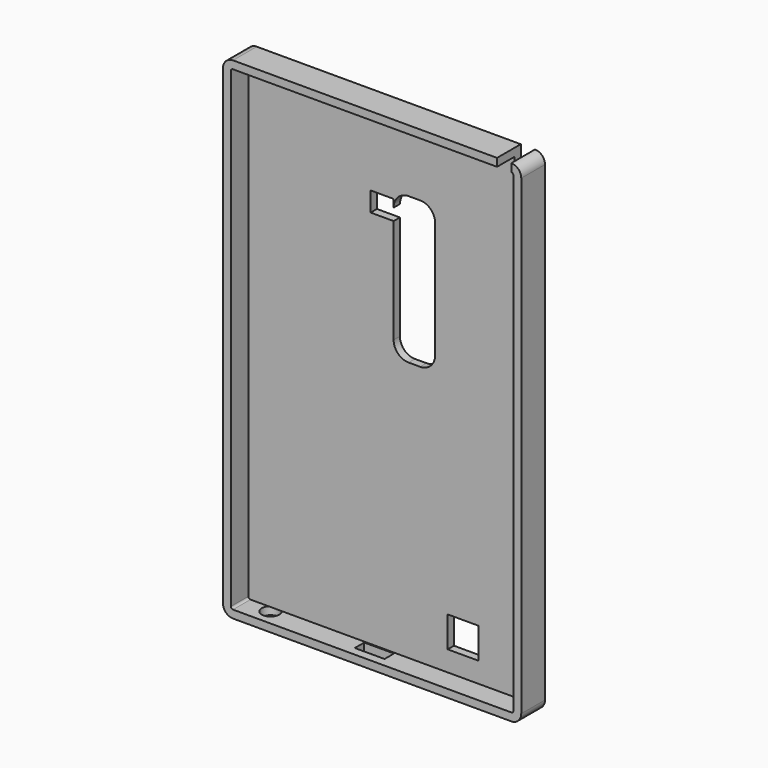
from build123d import *

# Parameters (mm, degrees)
F1_DEPTH = 7.5438
F4_T     = -2
F3_W     = 7.7331361671
F3_H     = 7.36
F3_W_2   = 3.617387048
F3_H_2   = 5.1309723878
F3_W_3   = 7.83
F3_H_3   = 7.83
F5_DEPTH = 50.8
F6_DEPTH = 25.4
F7_DEPTH = 50.8
F2_R     = 2.2388813648
F2_W     = 7.5641849544
F2_H     = 3.0062778387
F8_DEPTH = 2


with BuildPart() as f1:
    # F0 (on Front) → F1 (new body)
    with BuildSketch(Plane.XZ):
        with BuildLine():
            Line((37.6971361852, 55.4623973095), (-33.0543925679, 55.4623973095))
            ThreePointArc((-33.0543925679, 55.4623973095), (-34.8504437921, 54.7184485338), (-35.5943925679, 52.9223973095))
            Line((-35.5943925679, 52.9223973095), (-35.5943925679, -66.9464466786))
            ThreePointArc((-35.5943925679, -66.9464466786), (-34.8504437921, -68.7424979029), (-33.0543925679, -69.4864466786))
            Line((-33.0543925679, -69.4864466786), (37.6971361852, -69.4864466786))
            ThreePointArc((37.6971361852, -69.4864466786), (39.4931874094, -68.7424979029), (40.2371361852, -66.9464466786))
            Line((40.2371361852, -66.9464466786), (40.2371361852, 52.9223973095))
            ThreePointArc((40.2371361852, 52.9223973095), (39.4931874094, 54.7184485338), (37.6971361852, 55.4623973095))
        make_face()
    extrude(amount=-F1_DEPTH)

    # F4
    f4_openings = [f1.faces().sort_by_distance(p)[0] for p in [
        (2.321372, 0, -7.012025),
    ]]
    offset(amount=F4_T, openings=f4_openings)

    # F3 (on face) → F5 (cut)
    with BuildSketch(Plane(origin=(0, 7.5438, 0), x_dir=(-1, 0, 0), z_dir=(0, 1, 0))):
        with BuildLine():
            Line((-7.1636471725, 35.889052581), (-10.0967833396, 35.889052581))
            ThreePointArc((-10.0967833396, 35.889052581), (-12.7908601759, 34.7731294173), (-13.9067833396, 32.079052581))
            Line((-13.9067833396, 32.079052581), (-13.9067833396, 22.249052581))
            Line((-13.9067833396, 22.249052581), (-3.3536471725, 22.249052581))
            Line((-3.3536471725, 22.249052581), (-3.3536471725, 29.0738900152))
            Line((-3.3536471725, 29.0738900152), (-3.3536471725, 32.079052581))
            ThreePointArc((-3.3536471725, 32.079052581), (-4.4695703362, 34.7731294173), (-7.1636471725, 35.889052581))
        make_face()
        Polygon((-3.3536471725, 34.0338900152), (-3.3536471725, 32.079052581), (-3.3536471725, 29.0738900152), (2.4879228336, 29.0738900152), (2.4879228336, 34.0338900152), align=None)
        with BuildLine():
            Line((-3.3536471725, 22.249052581), (-13.9067833396, 22.249052581))
            Line((-13.9067833396, 22.249052581), (-13.9067833396, 2.459052581))
            ThreePointArc((-13.9067833396, 2.459052581), (-12.7908601759, -0.2350242554), (-10.0967833396, -1.350947419))
            Line((-10.0967833396, -1.350947419), (-7.1636471725, -1.350947419))
            ThreePointArc((-7.1636471725, -1.350947419), (-4.4695703362, -0.2350242554), (-3.3536471725, 2.459052581))
            Line((-3.3536471725, 2.459052581), (-3.3536471725, 22.249052581))
        make_face()
        with Locations((-8.630215256, 10.449052581)):
            Rectangle(F3_W, F3_H, mode=Mode.SUBTRACT)
        with Locations((-35.8884426612, 52.8969111156)):
            Rectangle(F3_W_2, F3_H_2)
        with Locations((-21.0011794782, -58.4082461512)):
            Rectangle(F3_W_3, F3_H_3)
    extrude(amount=-F5_DEPTH, mode=Mode.SUBTRACT)

    # F6 (add): a face of the model
    f6_faces = [f1.faces().sort_by_distance(p)[0] for p in [
        (8.630215256, 7.5438, 10.449052581),
    ]]
    extrude(f6_faces, amount=F6_DEPTH)

    # F7 (cut): a face of the model
    f7_faces = [f1.faces().sort_by_distance(p)[0] for p in [
        (8.630215256, 32.9438, 10.449052581),
    ]]
    extrude(f7_faces, amount=-F7_DEPTH, mode=Mode.SUBTRACT)

    # F2 (on face) → F8 (cut)
    with BuildSketch(Plane(origin=(0, 0, -69.4864466786), x_dir=(1, 0, 0), z_dir=(0, 0, -1))):
        with Locations((-26.7510712147, -4.0631839074)):
            Circle(F2_R)
        with Locations((-0.0824703602, -3.7237651413)):
            Rectangle(F2_W, F2_H)
    extrude(amount=-F8_DEPTH, mode=Mode.SUBTRACT)


solid = f1.part
